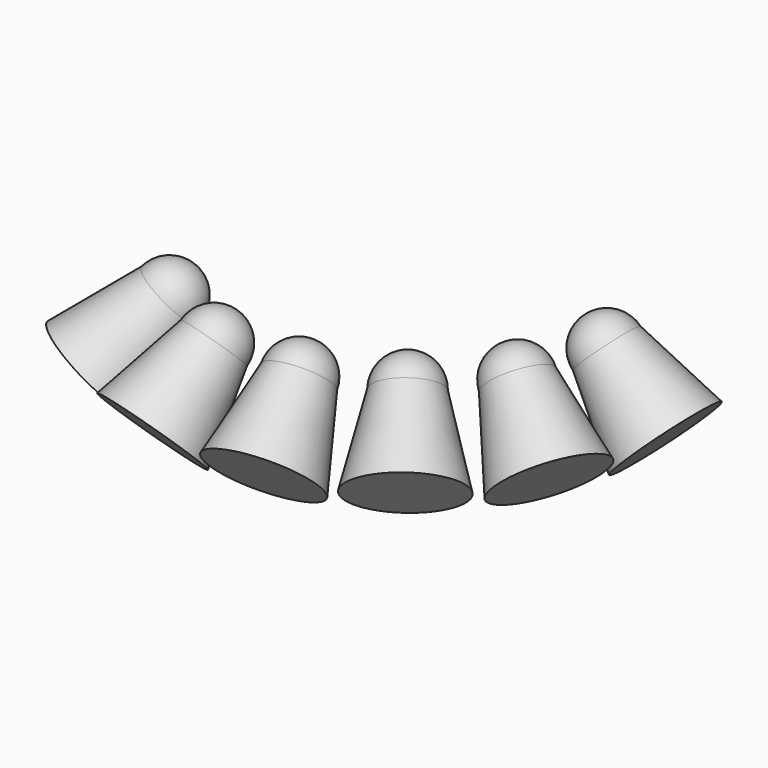
from build123d import *

# Parameters (mm, degrees)
FUSION003003005_PLACEMENT_ANGLE = 45
ARRAY002_COUNT                  = 6
ARRAY002_ANGLE                  = 130
ARRAY002_PLACEMENT_ANGLE        = 49


with BuildPart() as cone009:
    # Cone009 → Cone009 (revolve)
    with BuildSketch(Plane(origin=(0, 0, 0), x_dir=(-1, 0, 0), z_dir=(0, -1, 0))):
        Polygon((0, 0), (30, 0), (50, 80), (0, 80), align=None)
    revolve(axis=Axis((0, 0, 0), (0, 0, -1)))


with BuildPart() as array002:
    # Sphere003 → Sphere003 (revolve)
    with BuildSketch(Plane.XZ):
        with BuildLine():
            ThreePointArc((0, -30), (30, 0), (0, 30))
            Line((0, 30), (0, -30))
        make_face()
    revolve(axis=Axis((0, 0, 0), (0, 0, 1)))

    # Fusion003003005: union Cone009
    add(cone009.part)


with BuildPart() as array002_1:
    # Fusion003003005 placement: moved
    add(array002.part.moved(Location((-185, 0, 0))).rotate(Axis((-185, 0, 0), (0, 1, 0)), FUSION003003005_PLACEMENT_ANGLE))

    # Array002: Array002 ×6 about axis
    array002_axis = Axis((0, 0, 0), (0, 0, 1))


with BuildPart() as array002_2:
    add(array002_1.part)
    for i in range(1, ARRAY002_COUNT):
        add(array002_1.part.rotate(array002_axis, i * ARRAY002_ANGLE / (ARRAY002_COUNT - 1)))


with BuildPart() as array002_3:
    # Array002 placement: moved
    add(array002_2.part.moved(Location((0, 0, 1200))).rotate(Axis((0, 0, 1200), (0, 0, 1)), ARRAY002_PLACEMENT_ANGLE))


solid = array002_3.part
